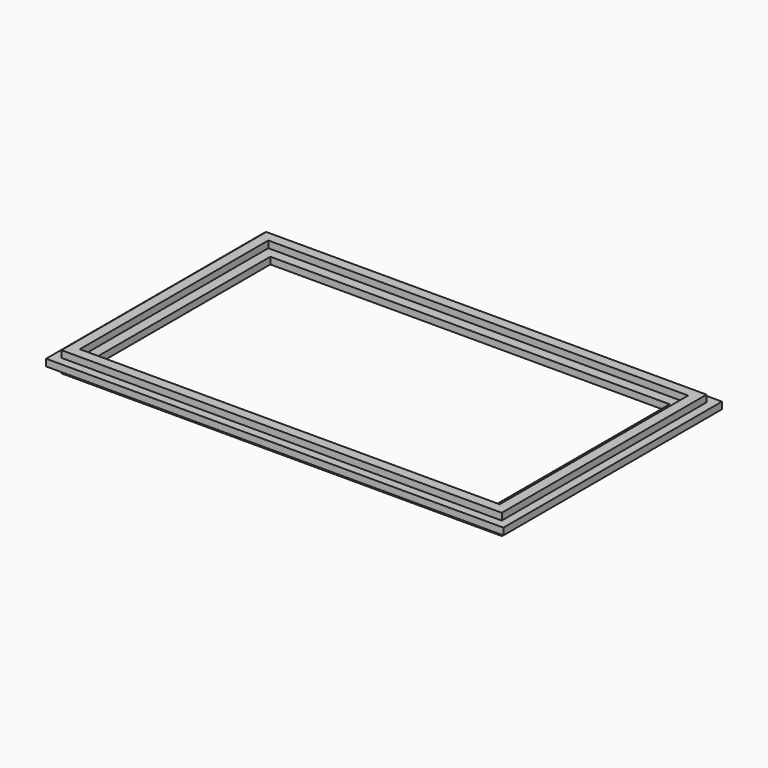
from build123d import *

# Parameters (mm, degrees)
F0_W          = 134
F0_H          = 80
F1_DEPTH      = 2
F2_W          = 129
F2_H          = 75
F2_W_2        = 123
F2_H_2        = 69
F3_DEPTH      = 2
F3_DEPTH_BACK = 4
F4_W          = 117
F4_H          = 63
F5_DEPTH      = 25


with BuildPart() as f1:
    # F0 (on Top) → F1 (new body)
    with BuildSketch(Plane.XY):
        Rectangle(F0_W, F0_H)
    extrude(amount=F1_DEPTH)

    # F2 (on face) → F3 (join, two sides)
    with BuildSketch(Plane(origin=(0, 0, 0), x_dir=(1, 0, 0), z_dir=(0, 0, -1))) as f3_sk:
        Rectangle(F2_W, F2_H)
        Rectangle(F2_W_2, F2_H_2, mode=Mode.SUBTRACT)
    extrude(amount=F3_DEPTH)
    extrude(f3_sk.sketch, amount=-F3_DEPTH_BACK)

    # F4 (on face) → F5 (cut)
    with BuildSketch(Plane(origin=(0, 0, 0), x_dir=(1, 0, 0), z_dir=(0, 0, -1))):
        Rectangle(F4_W, F4_H)
    extrude(amount=-F5_DEPTH, mode=Mode.SUBTRACT)


solid = f1.part
